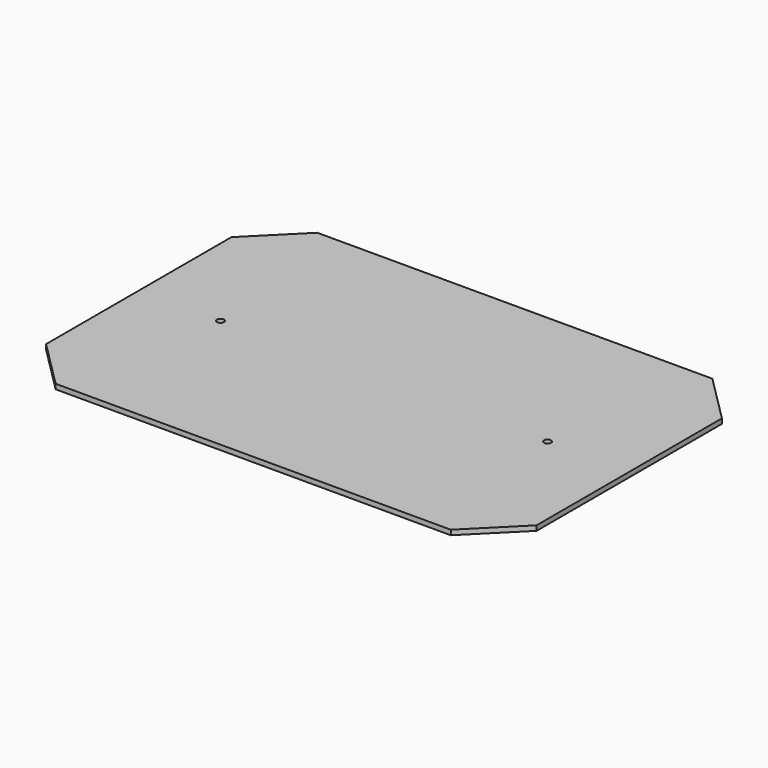
from build123d import *

# Parameters (mm, degrees)
F0_W     = 228.6
F0_H     = 152.4
F1_DEPTH = 2.286
F2_R     = 1.6256
F3_DEPTH = 2.287
F4_SIZE  = 22.225


with BuildPart() as f1:
    # F0 (on Top) → F1 (new body)
    with BuildSketch(Plane.XY):
        Rectangle(F0_W, F0_H)
    extrude(amount=-F1_DEPTH)

    # F2 (on face) → F3 (cut, through all)
    with BuildSketch(Plane.XY):
        with Locations((-76.2, 0)):
            Circle(F2_R)
        with Locations((76.2, 0)):
            Circle(F2_R)
    extrude(amount=-F3_DEPTH, mode=Mode.SUBTRACT)

    # F4
    f4_edges = [f1.edges().sort_by_distance(p)[0] for p in [
        (-114.3, 76.2, -1.143),
        (114.3, 76.2, -1.143),
        (-114.3, -76.2, -1.143),
        (114.3, -76.2, -1.143),
    ]]
    chamfer(f4_edges, length=F4_SIZE)


solid = f1.part
